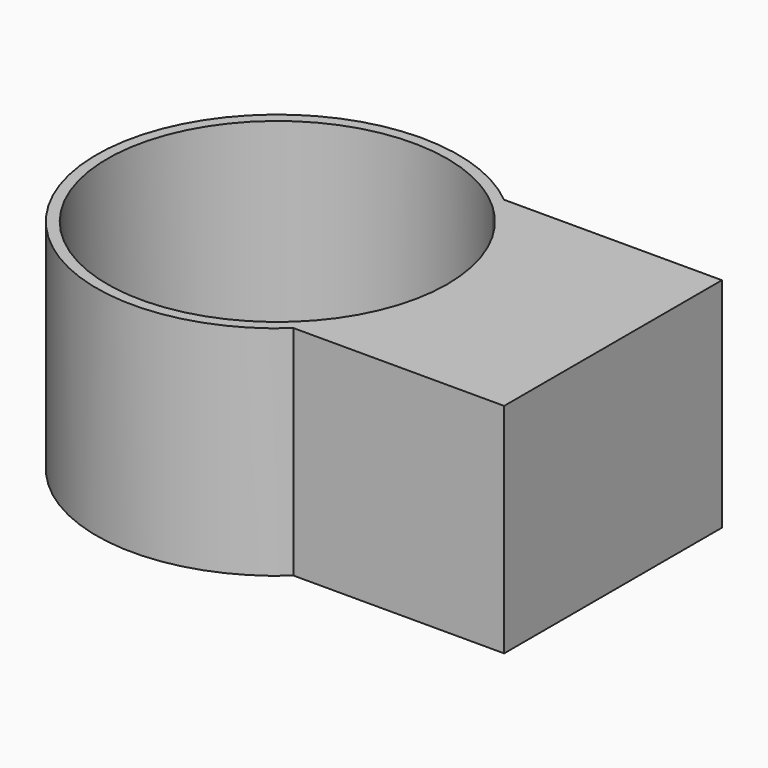
from build123d import *

# Parameters (mm, degrees)
F1_DEPTH = 25.4
F2_DEPTH = 25.4


with BuildPart() as f1:
    # F0 (on Top) → F1 (new body)
    with BuildSketch(Plane.XY):
        with BuildLine():
            Line((13.4339364156, 14.5617545777), (13.4339364156, 16.2391204683))
            ThreePointArc((13.4339364156, 16.2391204683), (-21.0679592629, -0.5663688742), (14.287013575, -15.4938995838))
            Line((14.287013575, -15.4938995838), (13.4339364156, -15.4938995838))
            Line((13.4339364156, -15.4938995838), (13.4339364156, -14.5617545777))
            ThreePointArc((13.4339364156, -14.5617545777), (-19.812, 0), (13.4339364156, 14.5617545777))
        make_face()
        with BuildLine():
            ThreePointArc((13.4339364156, 16.2391204683), (19.0697084166, 8.9736225745), (21.0755707207, 0))
            ThreePointArc((21.0755707207, 0), (19.3039716923, -8.4579168894), (14.287013575, -15.4938995838))
            Line((14.287013575, -15.4938995838), (38.8339364156, -15.4938995838))
            Line((38.8339364156, -15.4938995838), (38.8339364156, 16.2391204683))
            Line((38.8339364156, 16.2391204683), (13.4339364156, 16.2391204683))
        make_face()
        with BuildLine():
            ThreePointArc((14.287013575, -15.4938995838), (19.3039716923, -8.4579168894), (21.0755707207, 0))
            ThreePointArc((21.0755707207, 0), (19.0697084166, 8.9736225745), (13.4339364156, 16.2391204683))
            Line((13.4339364156, 16.2391204683), (13.4339364156, 14.5617545777))
            ThreePointArc((13.4339364156, 14.5617545777), (18.1475686011, 7.9486538399), (19.812, 0))
            ThreePointArc((19.812, 0), (18.1475686011, -7.9486538399), (13.4339364156, -14.5617545777))
            Line((13.4339364156, -14.5617545777), (13.4339364156, -15.4938995838))
            Line((13.4339364156, -15.4938995838), (14.287013575, -15.4938995838))
        make_face()
    extrude(amount=F1_DEPTH)

    # F0 (on Top) → F2 (cut)
    with BuildSketch(Plane.XY):
        with BuildLine():
            Line((13.4339364156, -14.5617545777), (13.4339364156, 14.5617545777))
            ThreePointArc((13.4339364156, 14.5617545777), (-19.812, 0), (13.4339364156, -14.5617545777))
        make_face()
    extrude(amount=F2_DEPTH, mode=Mode.SUBTRACT)


solid = f1.part
